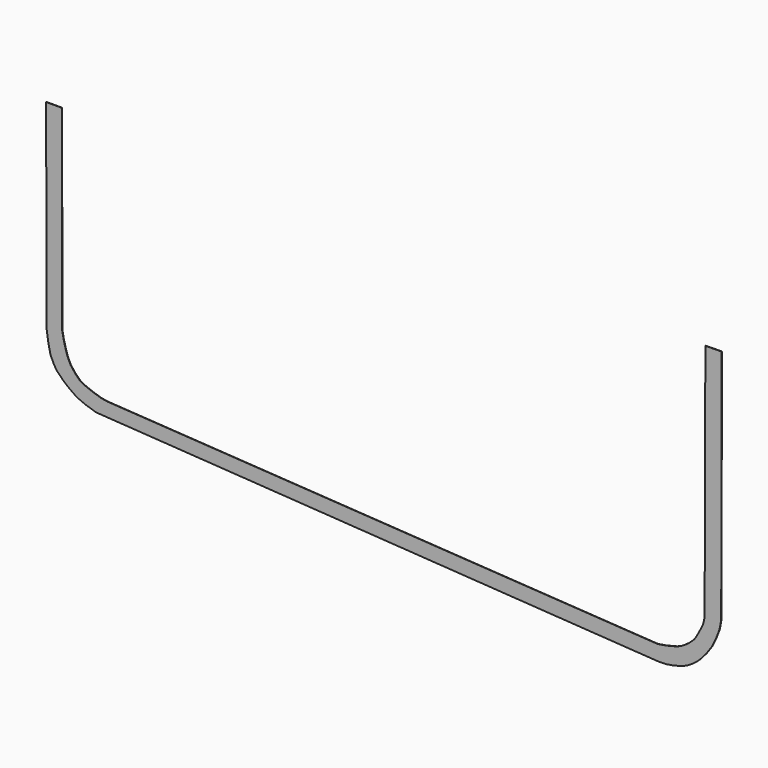
from build123d import *

# Parameters (mm, degrees)
F1_DEPTH = 4


with BuildPart() as f1:
    # F0 (on Front) → F1 (new body)
    with BuildSketch(Plane.XZ):
        Polygon((-3450.8821, 1571.6377), (-3619.0809, 1571.6377), (-3612.7055, -570.0649), (-3594.9509, -690.4863), (-3571.5575, -797.6489), (-3533.4575, -878.8527), (-3502.6473, -925.6141), (-3435.2611, -995.4641), (-3378.7207, -1042.4033), (-3306.3815, -1094.1685), (-3251.7969, -1122.3371), (-3194.6469, -1145.4765), (-3083.8267, -1181.3159), (2937.2941, -1571.6377), (3023.4509, -1570.0375), (3101.0479, -1557.1851), (3185.4267, -1536.2047), (3246.0565, -1511.1857), (3302.7239, -1477.9117), (3347.7073, -1443.7487), (3389.2363, -1405.4963), (3455.0985, -1330.9981), (3513.8995, -1246.5685), (3559.8735, -1153.2489), (3596.0685, -1058.6085), (3614.5851, -960.5137), (3619.0809, 1571.6377), (3444.7099, 1569.3263), (3437.1661, -944.9181), (3435.0579, -1003.2111), (3421.1641, -1062.9011), (3403.3587, -1102.4743), (3382.6323, -1140.9045), (3346.5389, -1207.5795), (3323.5265, -1240.3709), (3278.0351, -1283.3731), (3234.6265, -1316.4185), (3188.3477, -1344.8157), (3140.6973, -1365.7199), (3023.4763, -1394.9045), (2935.0843, -1409.5349), (-2959.3413, -1040.4983), (-3026.4227, -1029.6271), (-3110.7761, -1003.1603), (-3201.0223, -968.1083), (-3259.3153, -934.8597), (-3304.7813, -889.1651), (-3355.9369, -824.4459), (-3389.0331, -755.4341), (-3411.9439, -681.1645), (-3431.8321, -603.6945), (-3446.7165, -525.5895), align=None)
    extrude(amount=F1_DEPTH)


solid = f1.part
